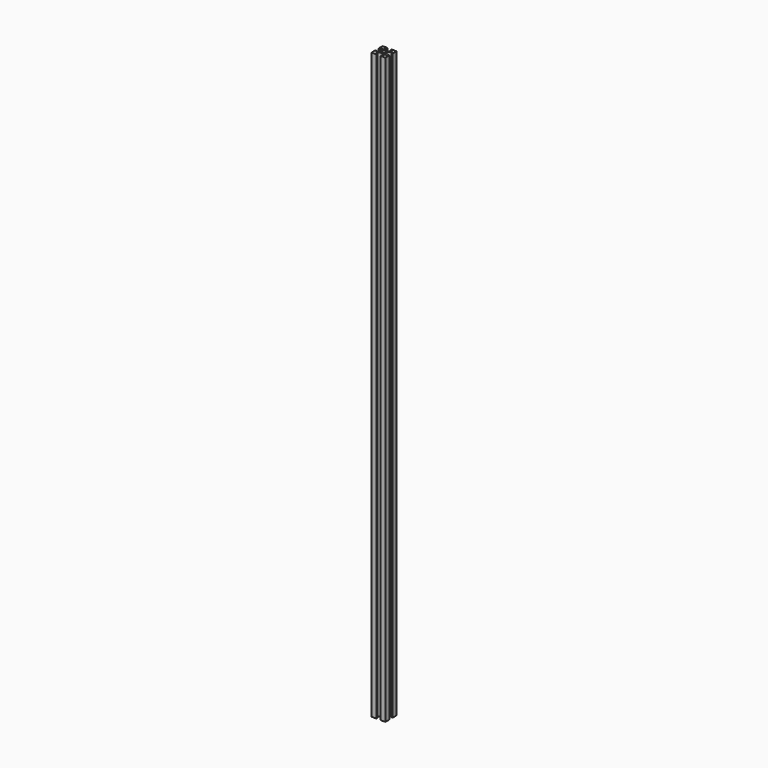
from build123d import *

# Parameters (mm, degrees)
F0_R     = 3
F1_DEPTH = 350
F2_DEPTH = 77.2
F3_DEPTH = 390
F4_DEPTH = 836


with BuildPart() as f1:
    # F0 (on Top) → F1 (new body)
    with BuildSketch(Plane.XY):
        with BuildLine():
            Line((3.5, 10.3), (3.5, 8.3))
            Line((3.5, 8.3), (5.687252, 8.3))
            ThreePointArc((5.687252, 8.3), (4.533043, 5.473211), (1.714087, 4.3))
            Line((1.714087, 4.3), (0.5, 4.3))
            Line((0.5, 4.3), (-0.714087, 4.3))
            ThreePointArc((-0.714087, 4.3), (-3.533043, 5.473211), (-4.687252, 8.3))
            Line((-4.687252, 8.3), (-2.5, 8.3))
            Line((-2.5, 8.3), (-2.5, 10.3))
            Line((-2.5, 10.3), (-9.5, 10.3))
            Line((-9.5, 10.3), (-9.5, 3.3))
            Line((-9.5, 3.3), (-7.5, 3.3))
            Line((-7.5, 3.3), (-7.5, 5.487252))
            ThreePointArc((-7.5, 5.487252), (-4.673211, 4.333043), (-3.5, 1.514087))
            Line((-3.5, 1.514087), (-3.5, 0.3))
            Line((-3.5, 0.3), (-3.5, -0.914087))
            ThreePointArc((-3.5, -0.914087), (-4.673211, -3.733043), (-7.5, -4.887252))
            Line((-7.5, -4.887252), (-7.5, -2.7))
            Line((-7.5, -2.7), (-9.5, -2.7))
            Line((-9.5, -2.7), (-9.5, -9.7))
            Line((-9.5, -9.7), (-2.5, -9.7))
            Line((-2.5, -9.7), (-2.5, -7.7))
            Line((-2.5, -7.7), (-4.687252, -7.7))
            ThreePointArc((-4.687252, -7.7), (-3.533043, -4.873211), (-0.714087, -3.7))
            Line((-0.714087, -3.7), (0.5, -3.7))
            Line((0.5, -3.7), (1.714087, -3.7))
            ThreePointArc((1.714087, -3.7), (4.533043, -4.873211), (5.687252, -7.7))
            Line((5.687252, -7.7), (3.5, -7.7))
            Line((3.5, -7.7), (3.5, -9.7))
            Line((3.5, -9.7), (10.5, -9.7))
            Line((10.5, -9.7), (10.5, -2.7))
            Line((10.5, -2.7), (8.5, -2.7))
            Line((8.5, -2.7), (8.5, -4.887252))
            ThreePointArc((8.5, -4.887252), (5.673211, -3.733043), (4.5, -0.914087))
            Line((4.5, -0.914087), (4.5, 0.3))
            Line((4.5, 0.3), (4.5, 1.514087))
            ThreePointArc((4.5, 1.514087), (5.673211, 4.333043), (8.5, 5.487252))
            Line((8.5, 5.487252), (8.5, 3.3))
            Line((8.5, 3.3), (10.5, 3.3))
            Line((10.5, 3.3), (10.5, 10.3))
            Line((10.5, 10.3), (3.5, 10.3))
        make_face()
        with Locations((0.5, 0.3)):
            Circle(F0_R, mode=Mode.SUBTRACT)
    extrude(amount=F1_DEPTH)


with BuildPart() as f2:
    # F0 (on Top) → F2 (new body)
    with BuildSketch(Plane.XY):
        with BuildLine():
            Line((3.5, 10.3), (3.5, 8.3))
            Line((3.5, 8.3), (5.687252, 8.3))
            ThreePointArc((5.687252, 8.3), (4.533043, 5.473211), (1.714087, 4.3))
            Line((1.714087, 4.3), (0.5, 4.3))
            Line((0.5, 4.3), (-0.714087, 4.3))
            ThreePointArc((-0.714087, 4.3), (-3.533043, 5.473211), (-4.687252, 8.3))
            Line((-4.687252, 8.3), (-2.5, 8.3))
            Line((-2.5, 8.3), (-2.5, 10.3))
            Line((-2.5, 10.3), (-9.5, 10.3))
            Line((-9.5, 10.3), (-9.5, 3.3))
            Line((-9.5, 3.3), (-7.5, 3.3))
            Line((-7.5, 3.3), (-7.5, 5.487252))
            ThreePointArc((-7.5, 5.487252), (-4.673211, 4.333043), (-3.5, 1.514087))
            Line((-3.5, 1.514087), (-3.5, 0.3))
            Line((-3.5, 0.3), (-3.5, -0.914087))
            ThreePointArc((-3.5, -0.914087), (-4.673211, -3.733043), (-7.5, -4.887252))
            Line((-7.5, -4.887252), (-7.5, -2.7))
            Line((-7.5, -2.7), (-9.5, -2.7))
            Line((-9.5, -2.7), (-9.5, -9.7))
            Line((-9.5, -9.7), (-2.5, -9.7))
            Line((-2.5, -9.7), (-2.5, -7.7))
            Line((-2.5, -7.7), (-4.687252, -7.7))
            ThreePointArc((-4.687252, -7.7), (-3.533043, -4.873211), (-0.714087, -3.7))
            Line((-0.714087, -3.7), (0.5, -3.7))
            Line((0.5, -3.7), (1.714087, -3.7))
            ThreePointArc((1.714087, -3.7), (4.533043, -4.873211), (5.687252, -7.7))
            Line((5.687252, -7.7), (3.5, -7.7))
            Line((3.5, -7.7), (3.5, -9.7))
            Line((3.5, -9.7), (10.5, -9.7))
            Line((10.5, -9.7), (10.5, -2.7))
            Line((10.5, -2.7), (8.5, -2.7))
            Line((8.5, -2.7), (8.5, -4.887252))
            ThreePointArc((8.5, -4.887252), (5.673211, -3.733043), (4.5, -0.914087))
            Line((4.5, -0.914087), (4.5, 0.3))
            Line((4.5, 0.3), (4.5, 1.514087))
            ThreePointArc((4.5, 1.514087), (5.673211, 4.333043), (8.5, 5.487252))
            Line((8.5, 5.487252), (8.5, 3.3))
            Line((8.5, 3.3), (10.5, 3.3))
            Line((10.5, 3.3), (10.5, 10.3))
            Line((10.5, 10.3), (3.5, 10.3))
        make_face()
        with Locations((0.5, 0.3)):
            Circle(F0_R, mode=Mode.SUBTRACT)
    extrude(amount=F2_DEPTH)


with BuildPart() as f3:
    # F0 (on Top) → F3 (new body)
    with BuildSketch(Plane.XY):
        with BuildLine():
            Line((3.5, 10.3), (3.5, 8.3))
            Line((3.5, 8.3), (5.687252, 8.3))
            ThreePointArc((5.687252, 8.3), (4.533043, 5.473211), (1.714087, 4.3))
            Line((1.714087, 4.3), (0.5, 4.3))
            Line((0.5, 4.3), (-0.714087, 4.3))
            ThreePointArc((-0.714087, 4.3), (-3.533043, 5.473211), (-4.687252, 8.3))
            Line((-4.687252, 8.3), (-2.5, 8.3))
            Line((-2.5, 8.3), (-2.5, 10.3))
            Line((-2.5, 10.3), (-9.5, 10.3))
            Line((-9.5, 10.3), (-9.5, 3.3))
            Line((-9.5, 3.3), (-7.5, 3.3))
            Line((-7.5, 3.3), (-7.5, 5.487252))
            ThreePointArc((-7.5, 5.487252), (-4.673211, 4.333043), (-3.5, 1.514087))
            Line((-3.5, 1.514087), (-3.5, 0.3))
            Line((-3.5, 0.3), (-3.5, -0.914087))
            ThreePointArc((-3.5, -0.914087), (-4.673211, -3.733043), (-7.5, -4.887252))
            Line((-7.5, -4.887252), (-7.5, -2.7))
            Line((-7.5, -2.7), (-9.5, -2.7))
            Line((-9.5, -2.7), (-9.5, -9.7))
            Line((-9.5, -9.7), (-2.5, -9.7))
            Line((-2.5, -9.7), (-2.5, -7.7))
            Line((-2.5, -7.7), (-4.687252, -7.7))
            ThreePointArc((-4.687252, -7.7), (-3.533043, -4.873211), (-0.714087, -3.7))
            Line((-0.714087, -3.7), (0.5, -3.7))
            Line((0.5, -3.7), (1.714087, -3.7))
            ThreePointArc((1.714087, -3.7), (4.533043, -4.873211), (5.687252, -7.7))
            Line((5.687252, -7.7), (3.5, -7.7))
            Line((3.5, -7.7), (3.5, -9.7))
            Line((3.5, -9.7), (10.5, -9.7))
            Line((10.5, -9.7), (10.5, -2.7))
            Line((10.5, -2.7), (8.5, -2.7))
            Line((8.5, -2.7), (8.5, -4.887252))
            ThreePointArc((8.5, -4.887252), (5.673211, -3.733043), (4.5, -0.914087))
            Line((4.5, -0.914087), (4.5, 0.3))
            Line((4.5, 0.3), (4.5, 1.514087))
            ThreePointArc((4.5, 1.514087), (5.673211, 4.333043), (8.5, 5.487252))
            Line((8.5, 5.487252), (8.5, 3.3))
            Line((8.5, 3.3), (10.5, 3.3))
            Line((10.5, 3.3), (10.5, 10.3))
            Line((10.5, 10.3), (3.5, 10.3))
        make_face()
        with Locations((0.5, 0.3)):
            Circle(F0_R, mode=Mode.SUBTRACT)
    extrude(amount=F3_DEPTH)


with BuildPart() as f4:
    # F0 (on Top) → F4 (new body)
    with BuildSketch(Plane.XY):
        with BuildLine():
            Line((3.5, 10.3), (3.5, 8.3))
            Line((3.5, 8.3), (5.687252, 8.3))
            ThreePointArc((5.687252, 8.3), (4.533043, 5.473211), (1.714087, 4.3))
            Line((1.714087, 4.3), (0.5, 4.3))
            Line((0.5, 4.3), (-0.714087, 4.3))
            ThreePointArc((-0.714087, 4.3), (-3.533043, 5.473211), (-4.687252, 8.3))
            Line((-4.687252, 8.3), (-2.5, 8.3))
            Line((-2.5, 8.3), (-2.5, 10.3))
            Line((-2.5, 10.3), (-9.5, 10.3))
            Line((-9.5, 10.3), (-9.5, 3.3))
            Line((-9.5, 3.3), (-7.5, 3.3))
            Line((-7.5, 3.3), (-7.5, 5.487252))
            ThreePointArc((-7.5, 5.487252), (-4.673211, 4.333043), (-3.5, 1.514087))
            Line((-3.5, 1.514087), (-3.5, 0.3))
            Line((-3.5, 0.3), (-3.5, -0.914087))
            ThreePointArc((-3.5, -0.914087), (-4.673211, -3.733043), (-7.5, -4.887252))
            Line((-7.5, -4.887252), (-7.5, -2.7))
            Line((-7.5, -2.7), (-9.5, -2.7))
            Line((-9.5, -2.7), (-9.5, -9.7))
            Line((-9.5, -9.7), (-2.5, -9.7))
            Line((-2.5, -9.7), (-2.5, -7.7))
            Line((-2.5, -7.7), (-4.687252, -7.7))
            ThreePointArc((-4.687252, -7.7), (-3.533043, -4.873211), (-0.714087, -3.7))
            Line((-0.714087, -3.7), (0.5, -3.7))
            Line((0.5, -3.7), (1.714087, -3.7))
            ThreePointArc((1.714087, -3.7), (4.533043, -4.873211), (5.687252, -7.7))
            Line((5.687252, -7.7), (3.5, -7.7))
            Line((3.5, -7.7), (3.5, -9.7))
            Line((3.5, -9.7), (10.5, -9.7))
            Line((10.5, -9.7), (10.5, -2.7))
            Line((10.5, -2.7), (8.5, -2.7))
            Line((8.5, -2.7), (8.5, -4.887252))
            ThreePointArc((8.5, -4.887252), (5.673211, -3.733043), (4.5, -0.914087))
            Line((4.5, -0.914087), (4.5, 0.3))
            Line((4.5, 0.3), (4.5, 1.514087))
            ThreePointArc((4.5, 1.514087), (5.673211, 4.333043), (8.5, 5.487252))
            Line((8.5, 5.487252), (8.5, 3.3))
            Line((8.5, 3.3), (10.5, 3.3))
            Line((10.5, 3.3), (10.5, 10.3))
            Line((10.5, 10.3), (3.5, 10.3))
        make_face()
        with Locations((0.5, 0.3)):
            Circle(F0_R, mode=Mode.SUBTRACT)
    extrude(amount=F4_DEPTH)


solid = Compound([f1.part, f2.part, f3.part, f4.part])
